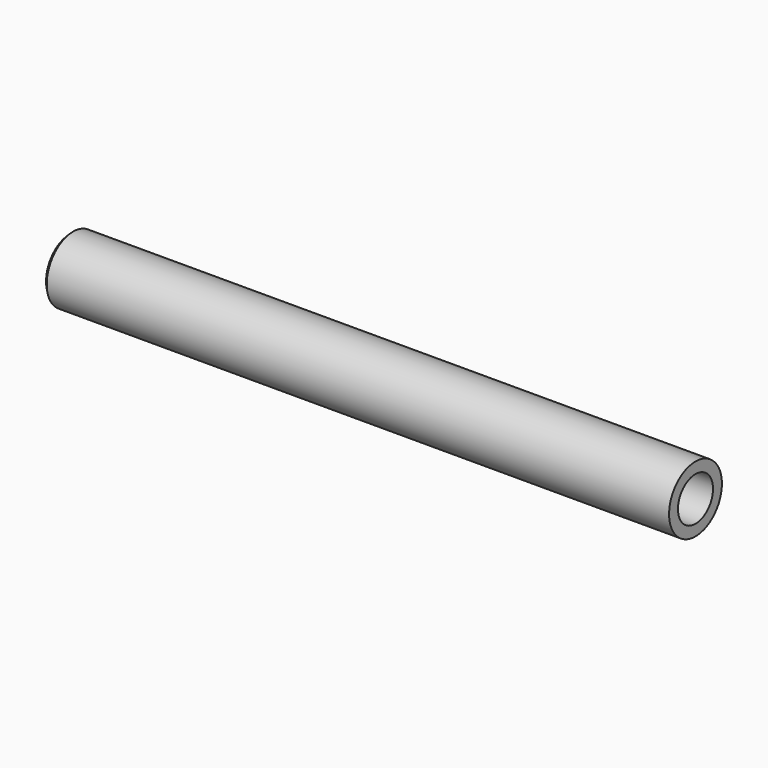
from build123d import *

# Parameters (mm, degrees)
F0_R      = 4.75
F1_DEPTH  = 90
F2_R      = 2.7
F3_DEPTH  = 100
F4_R      = 3.175
F5_DEPTH  = 20
F6_R      = 3.15
F6_R_2    = 2.7
F7_DEPTH  = 10
F9_DEPTH  = 25
F11_DEPTH = 25
F14_DEPTH = 1.1
F15_SIZE  = 0.5


with BuildPart() as f1:
    # F0 (on Right) → F1 (new body)
    with BuildSketch(Plane.YZ):
        Circle(F0_R)
    extrude(amount=F1_DEPTH)

    # F2 (on Right) → F3 (cut)
    with BuildSketch(Plane.YZ):
        Circle(F2_R)
    extrude(amount=F3_DEPTH, mode=Mode.SUBTRACT)

    # F4 (on Right) → F5 (cut)
    with BuildSketch(Plane.YZ):
        Circle(F4_R)
    extrude(amount=F5_DEPTH, mode=Mode.SUBTRACT)

    # F6 (on face) → F7 (cut)
    with BuildSketch(Plane.YZ.offset(90)):
        Circle(F6_R)
        Circle(F6_R_2, mode=Mode.SUBTRACT)
    extrude(amount=-F7_DEPTH, mode=Mode.SUBTRACT)

    # F8 (on Front) → F9 (cut)
    with BuildSketch(Plane.XZ):
        with BuildLine():
            ThreePointArc((72.25, -1.1), (73.35, 0), (72.25, 1.1))
            Line((72.25, 1.1), (62.25, 1.1))
            ThreePointArc((62.25, 1.1), (61.15, 0), (62.25, -1.1))
            Line((62.25, -1.1), (72.25, -1.1))
        make_face()
    extrude(amount=-F9_DEPTH, mode=Mode.SUBTRACT)

    # F10 (on Top) → F11 (cut)
    with BuildSketch(Plane.XY):
        with BuildLine():
            ThreePointArc((62.25, 1.1), (61.15, 0), (62.25, -1.1))
            Line((62.25, -1.1), (63.75, -1.1))
            ThreePointArc((63.75, -1.1), (64.85, 0), (63.75, 1.1))
            Line((63.75, 1.1), (62.25, 1.1))
        make_face()
    extrude(amount=-F11_DEPTH, mode=Mode.SUBTRACT)

    # F13 (on offset) → F14 (cut, symmetric)
    with BuildSketch(Plane.YZ.offset(62.25)):
        with BuildLine():
            Line((0, 0), (0, -11.794144941))
            ThreePointArc((0, -11.794144941), (8.3397198661, -8.3397198661), (11.794144941, 0))
            Line((11.794144941, 0), (0, 0))
        make_face()
    extrude(amount=F14_DEPTH, both=True, mode=Mode.SUBTRACT)

    # F15
    f15_edges = [f1.edges().sort_by_distance(p)[0] for p in [
        (0, -4.75, 0),
    ]]
    chamfer(f15_edges, length=F15_SIZE)


solid = f1.part
